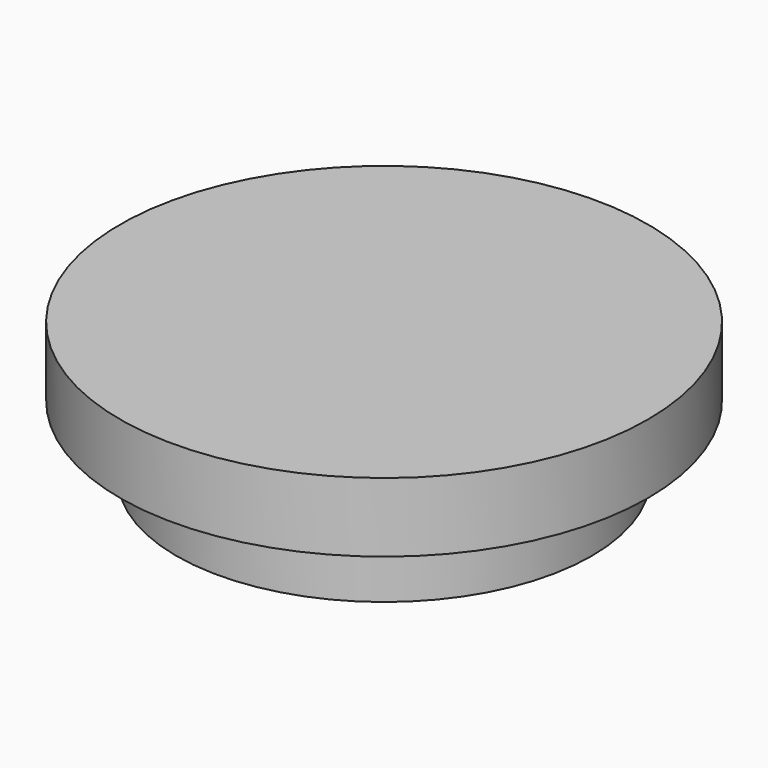
from build123d import *

# Parameters (mm, degrees)
F0_R     = 30
F1_DEPTH = 10
F2_R     = 38.1255
F2_R_2   = 30
F3_DEPTH = 10


with BuildPart() as f1:
    # F0 (on Top) → F1 (new body)
    with BuildSketch(Plane.XY):
        Circle(F0_R)
    extrude(amount=F1_DEPTH)

    # F2 (on face) → F3 (join)
    with BuildSketch(Plane.XY.offset(10)):
        Circle(F2_R)
        Circle(F2_R_2, mode=Mode.SUBTRACT)
        Circle(F2_R_2)
    extrude(amount=F3_DEPTH)


solid = f1.part
